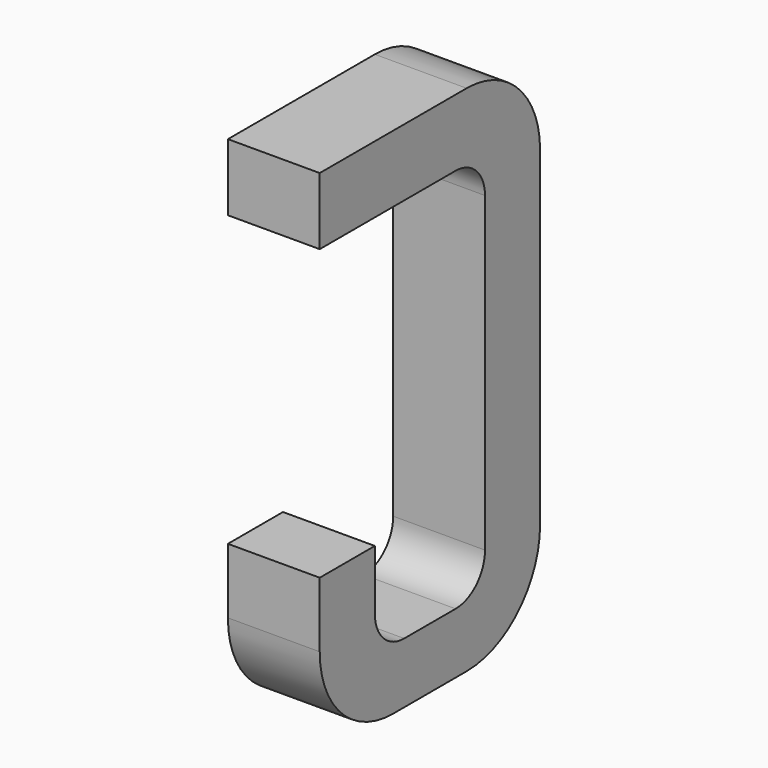
from build123d import *

# Parameters (mm, degrees)
BOX113_W     = 0.5
BOX113_H     = 1.5
BOX113_DEPTH = 2.795
FILLET252_R  = 0.5
FILLET251_R  = 0.5
FILLET259_R  = 0.5
BOX121_W     = 0.75
BOX121_H     = 2.1
BOX121_DEPTH = 1
FILLET262_R  = 0.2
FILLET264_R  = 0.2
FILLET260_R  = 0.2
FILLET261_R  = 0.2
BOX123_W     = 1
BOX123_H     = 1.575
BOX123_DEPTH = 3


with BuildPart() as part:
    # Box113 → Box113 (join)
    with BuildSketch(Plane(origin=(-0.25, 11.125, 0), x_dir=(1, 0, 0), z_dir=(0, 0, 1))):
        with Locations((0.25, 0.75)):
            Rectangle(BOX113_W, BOX113_H)
    extrude(amount=BOX113_DEPTH)

    # Fillet252
    fillet252_edges = [part.edges().sort_by_distance(p)[0] for p in [
        (0, 12.625, 0),
    ]]
    fillet(fillet252_edges, radius=FILLET252_R)

    # Fillet251
    fillet251_edges = [part.edges().sort_by_distance(p)[0] for p in [
        (0, 12.625, 2.795),
    ]]
    fillet(fillet251_edges, radius=FILLET251_R)

    # Fillet259
    fillet259_edges = [part.edges().sort_by_distance(p)[0] for p in [
        (0, 11.125, 0),
    ]]
    fillet(fillet259_edges, radius=FILLET259_R)

    # Box121 → Box121 (cut)
    with BuildSketch(Plane(origin=(-0.5, 11.5, 0.33), x_dir=(0, 1, 0), z_dir=(1, 0, 0))):
        with Locations((0.375, 1.05)):
            Rectangle(BOX121_W, BOX121_H)
    extrude(amount=BOX121_DEPTH, mode=Mode.SUBTRACT)

    # Fillet262
    fillet262_edges = [part.edges().sort_by_distance(p)[0] for p in [
        (0, 11.5, 0.33),
    ]]
    fillet(fillet262_edges, radius=FILLET262_R)

    # Fillet264
    fillet264_edges = [part.edges().sort_by_distance(p)[0] for p in [
        (0, 12.25, 0.33),
    ]]
    fillet(fillet264_edges, radius=FILLET264_R)

    # Fillet260
    fillet260_edges = [part.edges().sort_by_distance(p)[0] for p in [
        (0, 11.5, 2.43),
    ]]
    fillet(fillet260_edges, radius=FILLET260_R)

    # Fillet261
    fillet261_edges = [part.edges().sort_by_distance(p)[0] for p in [
        (0, 12.25, 2.43),
    ]]
    fillet(fillet261_edges, radius=FILLET261_R)

    # Box123 → Box123 (cut)
    with BuildSketch(Plane(origin=(-1, 11, 0.855), x_dir=(0, 1, 0), z_dir=(1, 0, 0))):
        with Locations((0.5, 0.7875)):
            Rectangle(BOX123_W, BOX123_H)
    extrude(amount=BOX123_DEPTH, mode=Mode.SUBTRACT)


with BuildPart() as part_1:
    # Body037 placement: moved
    add(part.part.moved(Location((6.35, 0, 0))))


solid = part_1.part
